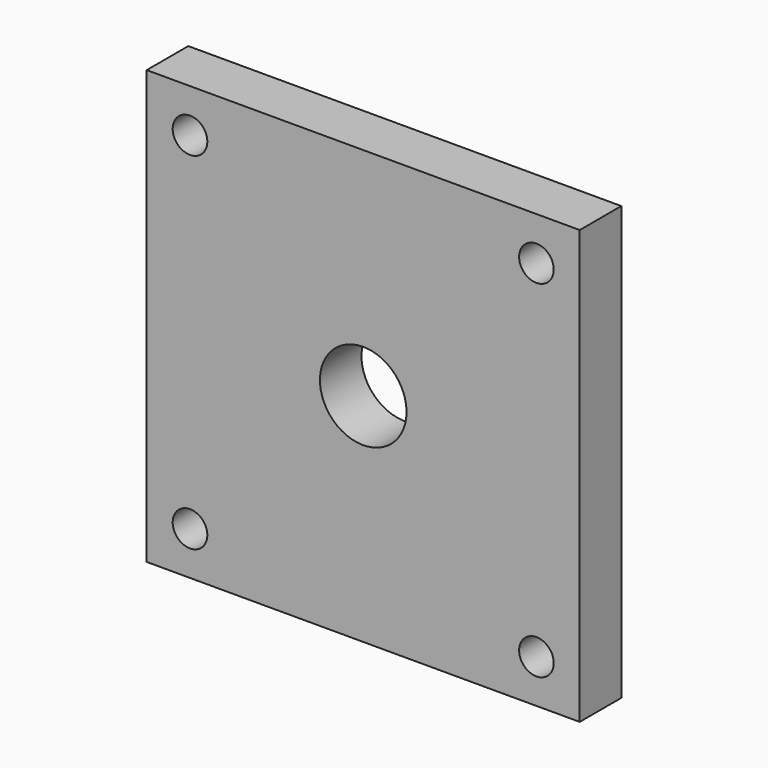
from build123d import *

# Parameters (mm, degrees)
F0_W     = 100
F0_H     = 100
F0_R     = 4
F0_R_2   = 10
F1_DEPTH = 12
F3_DEPTH = 18


with BuildPart() as f1:
    # F0 (on Front) → F1 (new body)
    with BuildSketch(Plane.XZ):
        Rectangle(F0_W, F0_H)
        with Locations((-40, -40)):
            Circle(F0_R, mode=Mode.SUBTRACT)
        with Locations((40, -40)):
            Circle(F0_R, mode=Mode.SUBTRACT)
        with Locations((-40, 40)):
            Circle(F0_R, mode=Mode.SUBTRACT)
        Circle(F0_R_2, mode=Mode.SUBTRACT)
        with Locations((40, 40)):
            Circle(F0_R, mode=Mode.SUBTRACT)
    extrude(amount=F1_DEPTH)

    # F2 (on face) → F3 (join)
    with BuildSketch(Plane(origin=(0, 0, 0), x_dir=(-1, 0, 0), z_dir=(0, 1, 0))):
        with BuildLine():
            ThreePointArc((-20, 35), (-30.606602, 30.606602), (-35, 20))
            Line((-35, 20), (-35, -20))
            ThreePointArc((-35, -20), (-30.606602, -30.606602), (-20, -35))
            Line((-20, -35), (20, -35))
            ThreePointArc((20, -35), (30.606602, -30.606602), (35, -20))
            Line((35, -20), (35, 20))
            ThreePointArc((35, 20), (30.606602, 30.606602), (20, 35))
            Line((20, 35), (-20, 35))
        make_face()
        with BuildLine():
            Line((-30, -20), (-30, 20))
            ThreePointArc((-30, 20), (-27.071068, 27.071068), (-20, 30))
            Line((-20, 30), (20, 30))
            ThreePointArc((20, 30), (27.071068, 27.071068), (30, 20))
            Line((30, 20), (30, -20))
            ThreePointArc((30, -20), (27.071068, -27.071068), (20, -30))
            Line((20, -30), (-20, -30))
            ThreePointArc((-20, -30), (-27.071068, -27.071068), (-30, -20))
        make_face(mode=Mode.SUBTRACT)
    extrude(amount=F3_DEPTH)


solid = f1.part
